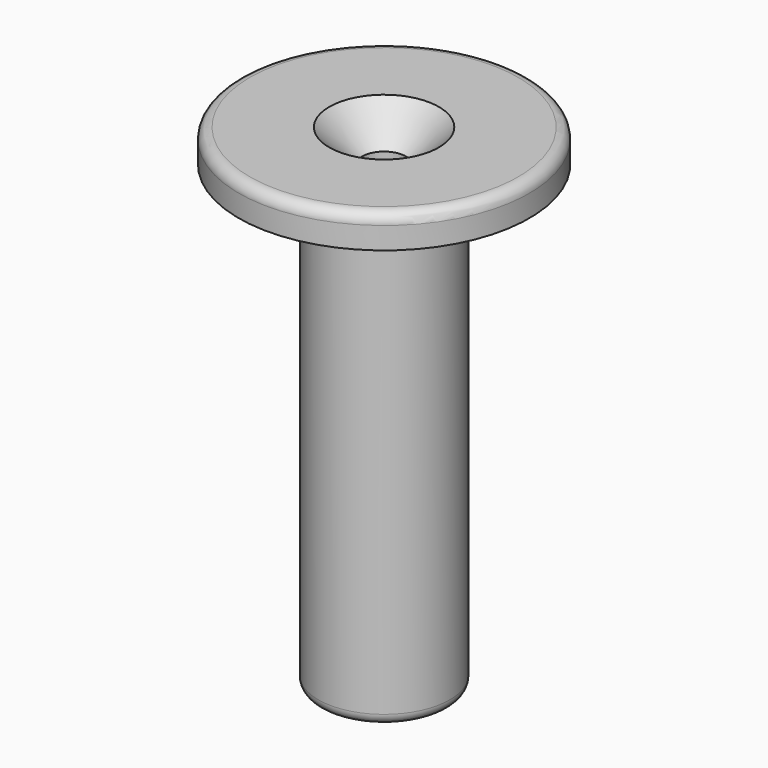
from build123d import *

# Parameters (mm, degrees)
F2_R = 1


with BuildPart() as f1:
    # F0 (on Front) → F1 (revolve)
    with BuildSketch(Plane.XZ):
        Polygon((-6, 0), (0, 0), (0, 3), (-2, 3), (-2, 42), (-5, 45), (-13.25, 45), (-13.25, 42), (-6, 42), align=None)
        Polygon((-6, 0), (0, 0), (0, 3), (-2, 3), (-2, 42), (-5, 45), (-13.25, 45), (-13.25, 42), (-6, 42), align=None)
    revolve(axis=Axis((0, 0, 1.5), (0, 0, 1)))

    # F2
    f2_edges = [f1.edges().sort_by_distance(p)[0] for p in [
        (6, 0, 0),
        (13.25, 0, 45),
    ]]
    fillet(f2_edges, radius=F2_R)


solid = f1.part
